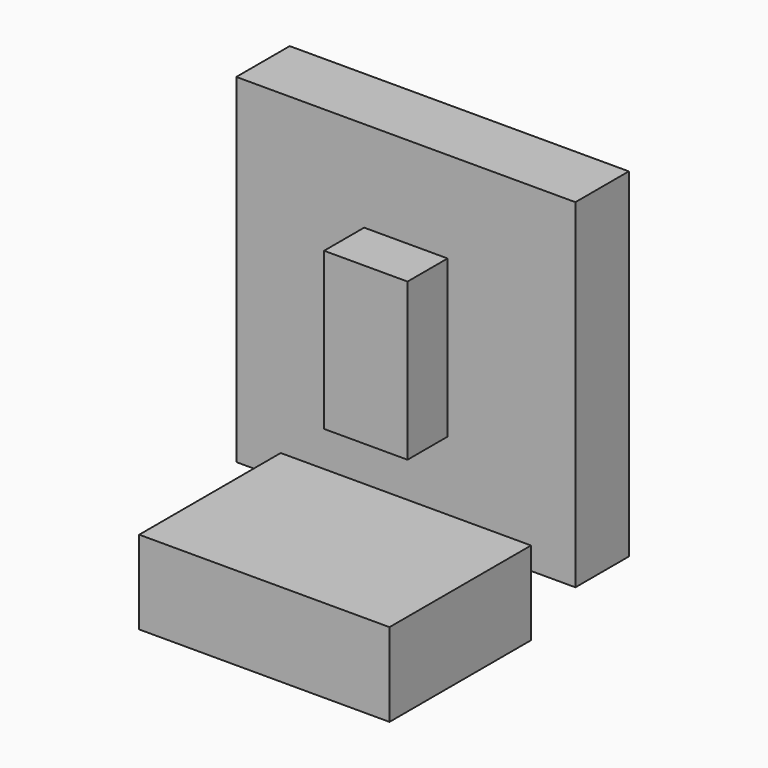
from build123d import *

# Parameters (mm, degrees)
F0_W     = 25
F0_H     = 47
F1_DEPTH = 15
F0_W_2   = 101.6
F0_H_2   = 101.6
F2_DEPTH = 20
F3_W     = 75
F3_H     = 25
F4_DEPTH = 53


with BuildPart() as f1:
    # F0 (on Front) → F1 (new body)
    with BuildSketch(Plane.XZ):
        Rectangle(F0_W, F0_H)
    extrude(amount=F1_DEPTH)


with BuildPart() as f2:
    # F0 (on Front) → F2 (new body)
    with BuildSketch(Plane.XZ):
        Rectangle(F0_W_2, F0_H_2)
        Rectangle(F0_W, F0_H, mode=Mode.SUBTRACT)
    extrude(amount=-F2_DEPTH)

    # F3 (on Front) → F4 (join)
    with BuildSketch(Plane.XZ):
        with Locations((0, -56.577301)):
            Rectangle(F3_W, F3_H)
    extrude(amount=F4_DEPTH)


solid = Compound([f1.part, f2.part])
